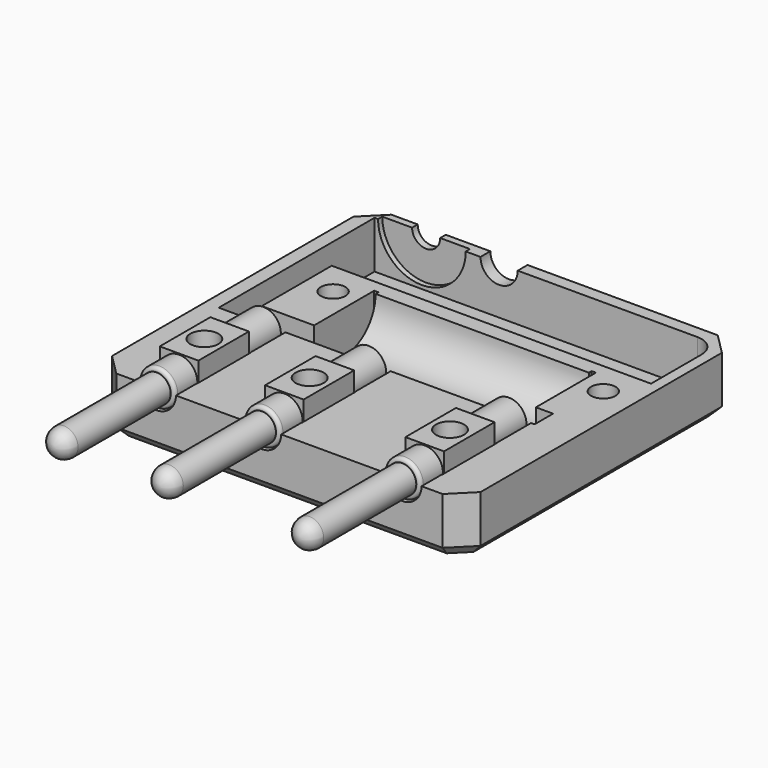
from build123d import *

# Parameters (mm, degrees)
SKETCH_W        = 5.5
SKETCH_H        = 9
SKETCH_R        = 2
PAD_DEPTH       = 2.75
SKETCH001_R     = 2.5
PAD001_DEPTH    = 6
SKETCH003_W     = 52.5
SKETCH003_H     = 49
PAD002_DEPTH    = 8.25
SKETCH004_W     = 5.6
SKETCH004_H     = 9.6
POCKET_DEPTH    = 2.8
SKETCH005_R     = 2.75
POCKET001_DEPTH = 11
SKETCH006_R     = 2.1
POCKET002_DEPTH = 8.251
POCKET003_DEPTH = 3
SKETCH008_R     = 5.5
POCKET004_DEPTH = 15.5
POCKET005_DEPTH = 6.75
SKETCH010_R     = 6.25
POCKET006_DEPTH = 12
SKETCH012_R     = 2.65
POCKET008_DEPTH = 2.5
SKETCH013_R     = 2
POCKET009_DEPTH = 5
POCKET007_DEPTH = 6.75
SKETCH014_R     = 1.75
POCKET010_DEPTH = 8.251
POCKET011_DEPTH = 4
CHAMFER_SIZE    = 3
CHAMFER001_SIZE = 1.5
SKETCH016_W     = 0.6
SKETCH016_H     = 12
POCKET012_DEPTH = 6.75


with BuildPart() as banana:
    # Sketch → Pad (new body, symmetric)
    with BuildSketch(Plane.XY):
        Rectangle(SKETCH_W, SKETCH_H)
        Circle(SKETCH_R, mode=Mode.SUBTRACT)
    extrude(amount=PAD_DEPTH, both=True)

    # Sketch001 (on Face1 of Pad) → Pad001 (join)
    with BuildSketch(Plane(origin=(0, 4.5, 0), x_dir=(-1, 0, 0), z_dir=(0, 1, 0))):
        Circle(SKETCH001_R)
    extrude(amount=PAD001_DEPTH)

    # Sketch002 → Revolution (revolve)
    with BuildSketch(Plane.XY):
        with BuildLine():
            Line((0, -4.5), (2.6, -4.5))
            Line((2.6, -4.5), (2.6, -8))
            ThreePointArc((2.1, -8.5), (2.453553, -8.353553), (2.6, -8))
            Line((2.1, -8.5), (2, -8.5))
            Line((2, -8.5), (2, -25))
            ThreePointArc((0, -27), (1.414214, -26.414214), (2, -25))
            Line((0, -27), (0, -4.5))
        make_face()
    revolve(axis=Axis((0, 0, 0), (0, 1, 0)))


with BuildPart() as banana001:
    # Sketch → Pad (new body, symmetric)
    with BuildSketch(Plane.XY):
        Rectangle(SKETCH_W, SKETCH_H)
        Circle(SKETCH_R, mode=Mode.SUBTRACT)
    extrude(amount=PAD_DEPTH, both=True)

    # Sketch001 (on Face1 of Pad) → Pad001 (join)
    with BuildSketch(Plane(origin=(0, 4.5, 0), x_dir=(-1, 0, 0), z_dir=(0, 1, 0))):
        Circle(SKETCH001_R)
    extrude(amount=PAD001_DEPTH)

    # Sketch002 → Revolution (revolve)
    with BuildSketch(Plane.XY):
        with BuildLine():
            Line((0, -4.5), (2.6, -4.5))
            Line((2.6, -4.5), (2.6, -8))
            ThreePointArc((2.1, -8.5), (2.453553, -8.353553), (2.6, -8))
            Line((2.1, -8.5), (2, -8.5))
            Line((2, -8.5), (2, -25))
            ThreePointArc((0, -27), (1.414214, -26.414214), (2, -25))
            Line((0, -27), (0, -4.5))
        make_face()
    revolve(axis=Axis((0, 0, 0), (0, 1, 0)))


with BuildPart() as banana001_1:
    # Body001 placement: moved
    add(banana001.part.moved(Location((15, 0, 0))))


with BuildPart() as banana002:
    # Sketch → Pad (new body, symmetric)
    with BuildSketch(Plane.XY):
        Rectangle(SKETCH_W, SKETCH_H)
        Circle(SKETCH_R, mode=Mode.SUBTRACT)
    extrude(amount=PAD_DEPTH, both=True)

    # Sketch001 (on Face1 of Pad) → Pad001 (join)
    with BuildSketch(Plane(origin=(0, 4.5, 0), x_dir=(-1, 0, 0), z_dir=(0, 1, 0))):
        Circle(SKETCH001_R)
    extrude(amount=PAD001_DEPTH)

    # Sketch002 → Revolution (revolve)
    with BuildSketch(Plane.XY):
        with BuildLine():
            Line((0, -4.5), (2.6, -4.5))
            Line((2.6, -4.5), (2.6, -8))
            ThreePointArc((2.1, -8.5), (2.453553, -8.353553), (2.6, -8))
            Line((2.1, -8.5), (2, -8.5))
            Line((2, -8.5), (2, -25))
            ThreePointArc((0, -27), (1.414214, -26.414214), (2, -25))
            Line((0, -27), (0, -4.5))
        make_face()
    revolve(axis=Axis((0, 0, 0), (0, 1, 0)))


with BuildPart() as banana002_1:
    # Body002 placement: moved
    add(banana002.part.moved(Location((35, 0, 0))))


with BuildPart() as body003:
    # Sketch003 → Pad002 (new body)
    with BuildSketch(Plane.XY):
        with Locations((17.5, 16)):
            Rectangle(SKETCH003_W, SKETCH003_H)
    extrude(amount=-PAD002_DEPTH)

    # Sketch004 → Pocket (cut)
    with BuildSketch(Plane.XY):
        Rectangle(SKETCH004_W, SKETCH004_H)
        with Locations((15, 0)):
            Rectangle(SKETCH004_W, SKETCH004_H)
        with Locations((35, 0)):
            Rectangle(SKETCH004_W, SKETCH004_H)
    extrude(amount=-POCKET_DEPTH, mode=Mode.SUBTRACT)

    # Sketch005 → Pocket001 (cut, symmetric)
    with BuildSketch(Plane.XZ):
        Circle(SKETCH005_R)
        with Locations((15, 0)):
            Circle(SKETCH005_R)
        with Locations((35, 0)):
            Circle(SKETCH005_R)
    extrude(amount=POCKET001_DEPTH, both=True, mode=Mode.SUBTRACT)

    # Sketch006 → Pocket002 (cut, through all)
    with BuildSketch(Plane.XY):
        Circle(SKETCH006_R)
        with Locations((15, 0)):
            Circle(SKETCH006_R)
        with Locations((35, 0)):
            Circle(SKETCH006_R)
    extrude(amount=-POCKET002_DEPTH, mode=Mode.SUBTRACT)

    # Sketch007 → Pocket003 (cut)
    with BuildSketch(Plane.XY.offset(-8.25)):
        Polygon((1.645448, 2.85), (-1.645448, 2.85), (-3.290897, 0), (-1.645448, -2.85), (1.645448, -2.85), (3.290897, 0), align=None)
        Polygon((16.645448, -2.85), (18.290897, 0), (16.645448, 2.85), (13.354552, 2.85), (11.709103, 0), (13.354552, -2.85), align=None)
        Polygon((36.645448, -2.85), (38.290897, 0), (36.645448, 2.85), (33.354552, 2.85), (31.709103, 0), (33.354552, -2.85), align=None)
    extrude(amount=POCKET003_DEPTH, mode=Mode.SUBTRACT)

    # Sketch008 → Pocket004 (cut, symmetric)
    with BuildSketch(Plane(origin=(20, 19, 0), x_dir=(0, 1, 0), z_dir=(1, 0, 0))):
        Circle(SKETCH008_R)
    extrude(amount=POCKET004_DEPTH, both=True, mode=Mode.SUBTRACT)

    # Sketch009 → Pocket005 (cut)
    with BuildSketch(Plane.XY):
        with BuildLine():
            Line((-6.75, 38.75), (39.25, 38.75))
            ThreePointArc((42.25, 35.75), (41.37132, 37.87132), (39.25, 38.75))
            Line((42.25, 35.75), (42.25, 26.75))
            Line((42.25, 26.75), (-6.75, 26.75))
            Line((-6.75, 26.75), (-6.75, 38.75))
        make_face()
    extrude(amount=-POCKET005_DEPTH, mode=Mode.SUBTRACT)

    # Sketch010 → Pocket006 (cut)
    with BuildSketch(Plane.XZ.offset(-39.5)):
        Circle(SKETCH010_R)
    extrude(amount=POCKET006_DEPTH, mode=Mode.SUBTRACT)

    # Sketch012 → Pocket008 (cut, symmetric)
    with BuildSketch(Plane(origin=(11, 39.5, 0), x_dir=(1, 0, 0), z_dir=(0, -1, 0))):
        Circle(SKETCH012_R)
    extrude(amount=POCKET008_DEPTH, both=True, mode=Mode.SUBTRACT)

    # Sketch013 → Pocket009 (cut)
    with BuildSketch(Plane.XZ.offset(-39.5)):
        Circle(SKETCH013_R)
    extrude(amount=-POCKET009_DEPTH, mode=Mode.SUBTRACT)

    # Sketch011 → Pocket007 (cut)
    with BuildSketch(Plane.XY):
        Polygon((-6.75, 27), (-3.25, 27), (-3.25, 14.3), (38.25, 14.3), (38.25, 11), (-6.75, 11), align=None)
    extrude(amount=-POCKET007_DEPTH, mode=Mode.SUBTRACT)

    # Sketch014 → Pocket010 (cut, through all)
    with BuildSketch(Plane.XY):
        with Locations((0.75, 22)):
            Circle(SKETCH014_R)
        with Locations((39.25, 22)):
            Circle(SKETCH014_R)
    extrude(amount=-POCKET010_DEPTH, mode=Mode.SUBTRACT)

    # Sketch015 → Pocket011 (cut)
    with BuildSketch(Plane.XY.offset(-8.25)):
        Polygon((3.5, 20.412287), (3.5, 23.587713), (0.75, 25.175426), (-2, 23.587713), (-2, 20.412287), (0.75, 18.824574), align=None)
        Polygon((42, 20.412287), (42, 23.587713), (39.25, 25.175426), (36.5, 23.587713), (36.5, 20.412287), (39.25, 18.824574), align=None)
    extrude(amount=POCKET011_DEPTH, mode=Mode.SUBTRACT)

    # Chamfer
    chamfer_edges = [body003.edges().sort_by_distance(p)[0] for p in [
        (-8.75, 40.5, -4.125),
        (-8.75, -8.5, -4.125),
        (43.75, -8.5, -4.125),
        (43.75, 40.5, -4.125),
    ]]
    chamfer(chamfer_edges, length=CHAMFER_SIZE)

    # Chamfer001
    chamfer001_edges = [body003.edges().sort_by_distance(p)[0] for p in [
        (17.5, -8.5, -8.25),
        (42.25, -7, -8.25),
        (43.75, 16, -8.25),
        (42.25, 39, -8.25),
        (17.5, 40.5, -8.25),
        (-7.25, 39, -8.25),
        (-8.75, 16, -8.25),
        (-7.25, -7, -8.25),
    ]]
    chamfer(chamfer001_edges, length=CHAMFER001_SIZE)

    # Sketch016 → Pocket012 (cut)
    with BuildSketch(Plane.XY):
        with Locations((4.5, 19)):
            Rectangle(SKETCH016_W, SKETCH016_H)
        with Locations((35.5, 19)):
            Rectangle(SKETCH016_W, SKETCH016_H)
    extrude(amount=-POCKET012_DEPTH, mode=Mode.SUBTRACT)


solid = Compound([banana.part, banana001_1.part, banana002_1.part, body003.part])
